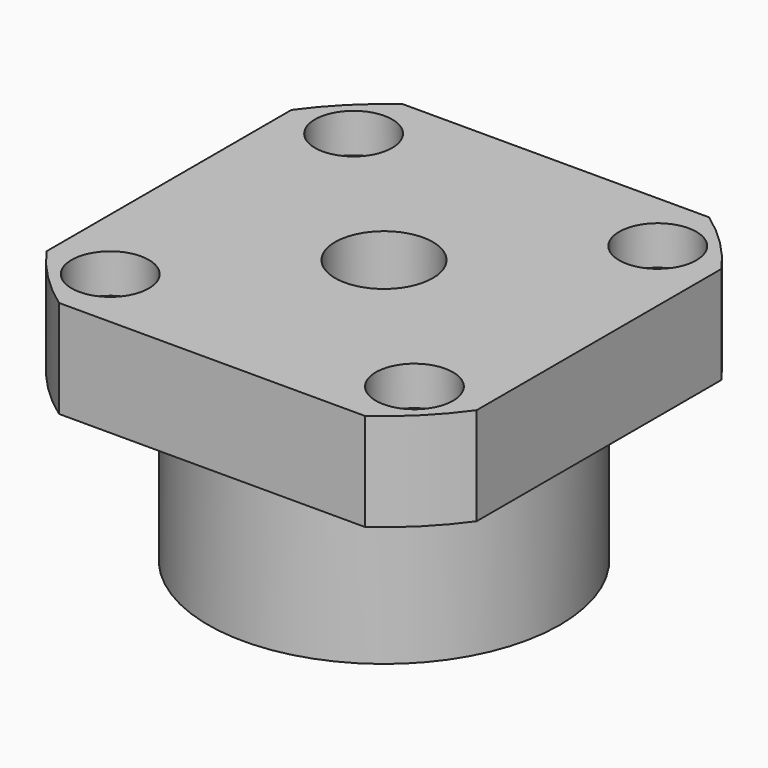
from build123d import *

# Parameters (mm, degrees)
F0_R     = 18
F0_R_2   = 5
F1_DEPTH = 27
F0_R_3   = 3.95
F0_R_4   = 2.05
F2_DEPTH = 10
F3_DEPTH = 4


with BuildPart() as f1:
    # F0 (on Top) → F1 (new body)
    with BuildSketch(Plane.XY):
        with Locations((22, -22)):
            Circle(F0_R)
        with Locations((22, -22)):
            Circle(F0_R_2, mode=Mode.SUBTRACT)
    extrude(amount=-F1_DEPTH)

    # F0 (on Top) → F2 (join)
    with BuildSketch(Plane.XY):
        with BuildLine():
            Line((37.652476, 0), (6.347524, 0))
            ThreePointArc((6.347524, 0), (2.908117, -2.908117), (0, -6.347524))
            Line((0, -6.347524), (0, -37.652476))
            ThreePointArc((0, -37.652476), (2.908117, -41.091883), (6.347524, -44))
            Line((6.347524, -44), (37.652476, -44))
            ThreePointArc((37.652476, -44), (41.091883, -41.091883), (44, -37.652476))
            Line((44, -37.652476), (44, -6.347524))
            ThreePointArc((44, -6.347524), (41.091883, -2.908117), (37.652476, 0))
        make_face()
        with Locations((6.443651, -37.556349)):
            Circle(F0_R_3, mode=Mode.SUBTRACT)
        with Locations((37.556349, -37.556349)):
            Circle(F0_R_3, mode=Mode.SUBTRACT)
        with Locations((6.443651, -6.443651)):
            Circle(F0_R_3, mode=Mode.SUBTRACT)
        with Locations((22, -22)):
            Circle(F0_R, mode=Mode.SUBTRACT)
        with Locations((37.556349, -6.443651)):
            Circle(F0_R_3, mode=Mode.SUBTRACT)
        with Locations((6.443651, -6.443651)):
            Circle(F0_R_3)
        with Locations((6.443651, -6.443651)):
            Circle(F0_R_4, mode=Mode.SUBTRACT)
        with Locations((37.556349, -6.443651)):
            Circle(F0_R_3)
        with Locations((37.556349, -6.443651)):
            Circle(F0_R_4, mode=Mode.SUBTRACT)
        with Locations((37.556349, -37.556349)):
            Circle(F0_R_3)
        with Locations((37.556349, -37.556349)):
            Circle(F0_R_4, mode=Mode.SUBTRACT)
        with Locations((6.443651, -37.556349)):
            Circle(F0_R_3)
        with Locations((6.443651, -37.556349)):
            Circle(F0_R_4, mode=Mode.SUBTRACT)
    extrude(amount=-F2_DEPTH)

    # F0 (on Top) → F3 (cut)
    with BuildSketch(Plane.XY):
        with Locations((6.443651, -6.443651)):
            Circle(F0_R_3)
        with Locations((6.443651, -6.443651)):
            Circle(F0_R_4, mode=Mode.SUBTRACT)
        with Locations((37.556349, -6.443651)):
            Circle(F0_R_3)
        with Locations((37.556349, -6.443651)):
            Circle(F0_R_4, mode=Mode.SUBTRACT)
        with Locations((37.556349, -37.556349)):
            Circle(F0_R_3)
        with Locations((37.556349, -37.556349)):
            Circle(F0_R_4, mode=Mode.SUBTRACT)
        with Locations((6.443651, -37.556349)):
            Circle(F0_R_3)
        with Locations((6.443651, -37.556349)):
            Circle(F0_R_4, mode=Mode.SUBTRACT)
    extrude(amount=-F3_DEPTH, mode=Mode.SUBTRACT)


solid = f1.part
